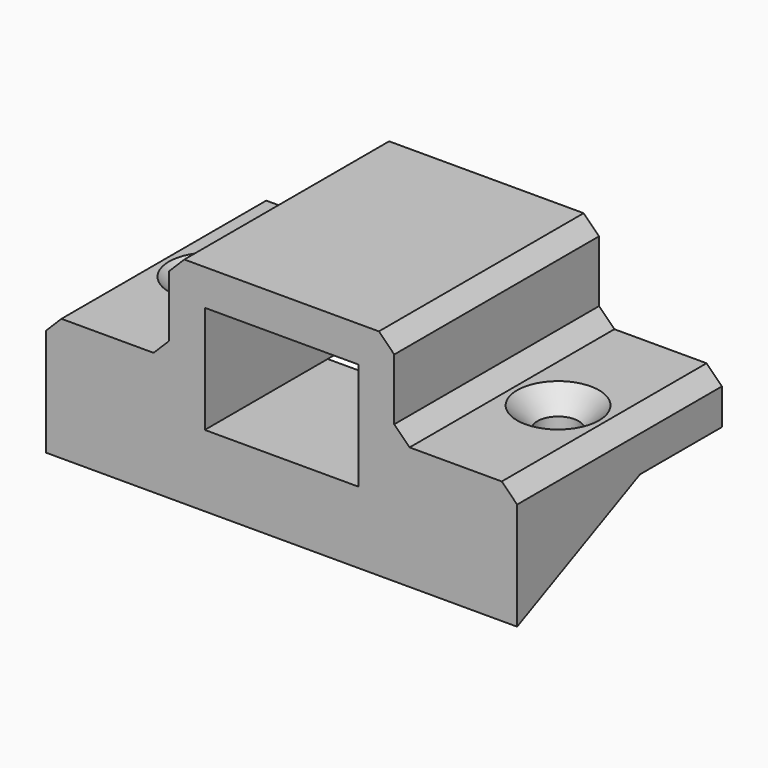
from build123d import *

# Parameters (mm, degrees)
F1_DEPTH        = 11
F2_W            = 15
F2_H            = 10.5
F3_DEPTH        = 25.001
F5_DEPTH        = 12
F7_DEPTH        = 12
F8_SIZE         = 1.5
F10_D           = 4
F10_CSINK_D     = 8
F10_CSINK_ANGLE = 90


with BuildPart() as f1:
    # F0 (on Right) → F1 (new body, symmetric)
    with BuildSketch(Plane.YZ):
        Polygon((-15, -7), (0, 0), (10, 0), (10, 14), (-15, 14), align=None)
    extrude(amount=F1_DEPTH, both=True)

    # F2 (on face) → F3 (cut, through all)
    with BuildSketch(Plane(origin=(0, 10, 0), x_dir=(-1, 0, 0), z_dir=(0, 1, 0))):
        with Locations((0, 5.25)):
            Rectangle(F2_W, F2_H)
    extrude(amount=-F3_DEPTH, mode=Mode.SUBTRACT)

    # F4 (on face) → F5 (join)
    with BuildSketch(Plane(origin=(-11, 0, 0), x_dir=(0, -1, 0), z_dir=(-1, 0, 0))):
        Polygon((15, 5), (-10, 5), (-10, 0), (0, 0), (15, -7), align=None)
    extrude(amount=F5_DEPTH)

    # F6 (on face) → F7 (join)
    with BuildSketch(Plane.YZ.offset(11)):
        Polygon((10, 0), (10, 5), (-15, 5), (-15, -7), (0, 0), align=None)
    extrude(amount=F7_DEPTH)

    # F8
    f8_edges = [f1.edges().sort_by_distance(p)[0] for p in [
        (11, -2.5, 5),
        (11, -2.5, 14),
        (-11, -2.5, 14),
        (-11, -2.5, 5),
        (23, -2.5, 5),
        (-23, -2.5, 5),
    ]]
    chamfer(f8_edges, length=F8_SIZE)

    # F10 (through all)
    with Locations(Plane.XY.offset(5)):
        with Locations((-17, -2.5), (17, -2.5)):
            CounterSinkHole(F10_D / 2, F10_CSINK_D / 2, counter_sink_angle=F10_CSINK_ANGLE)


solid = f1.part
